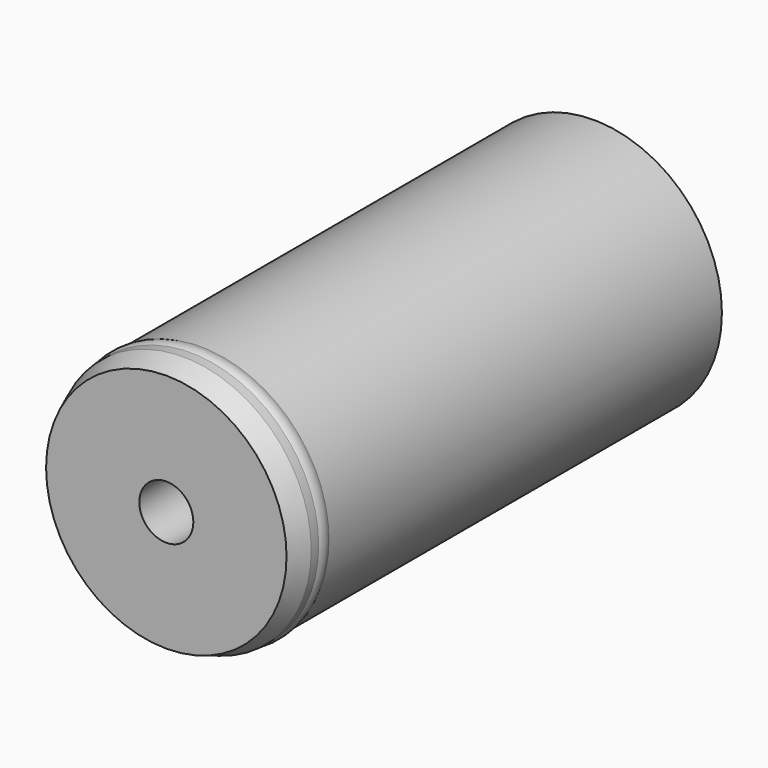
from build123d import *

# Parameters (mm, degrees)
SKETCH013_R         = 2.115
SKETCH013_R_2       = 0.445
PAD006_DEPTH        = 7
SKETCH015_R         = 0.225
GROOVE001_FACE2_R   = 2.115
GROOVE001_FACE2_R_2 = 0.445
PAD007_DEPTH        = 0.2
PAD007_FACE5_R      = 2.115
PAD007_FACE5_R_2    = 0.445
PAD008_DEPTH        = 1.6


with BuildPart() as part:
    # Sketch013 → Pad006 (new body)
    with BuildSketch(Plane.XZ):
        Circle(SKETCH013_R)
        Circle(SKETCH013_R_2, mode=Mode.SUBTRACT)
    extrude(amount=PAD006_DEPTH)

    # Sketch015 → Revolution (revolve)
    with BuildSketch(Plane.XY):
        with Locations((-1.916694, -6.398077)):
            Circle(SKETCH015_R)
    revolve(axis=Axis((0, 0, 0), (0, 1, 0)))

    # Sketch016 → Groove001 (revolve, cut)
    with BuildSketch(Plane.XY):
        Polygon((-2.238852, -6.34167), (-1.80714, -7.444808), (-2.2822, -7.159883), align=None)
    revolve(axis=Axis((0, 0, 0), (0, 1, 0)), mode=Mode.SUBTRACT)

    # Groove001 Face2 → Pad007 (add)
    with BuildSketch(Plane(origin=(0, 0, 0), x_dir=(1, 0, 0), z_dir=(0, 1, 0))):
        Circle(GROOVE001_FACE2_R)
        Circle(GROOVE001_FACE2_R_2, mode=Mode.SUBTRACT)
    extrude(amount=PAD007_DEPTH)

    # Pad007 Face5 → Pad008 (add)
    with BuildSketch(Plane(origin=(0, 0.2, 0), x_dir=(1, 0, 0), z_dir=(0, 1, 0))):
        Circle(PAD007_FACE5_R)
        Circle(PAD007_FACE5_R_2, mode=Mode.SUBTRACT)
    extrude(amount=PAD008_DEPTH)


solid = part.part
